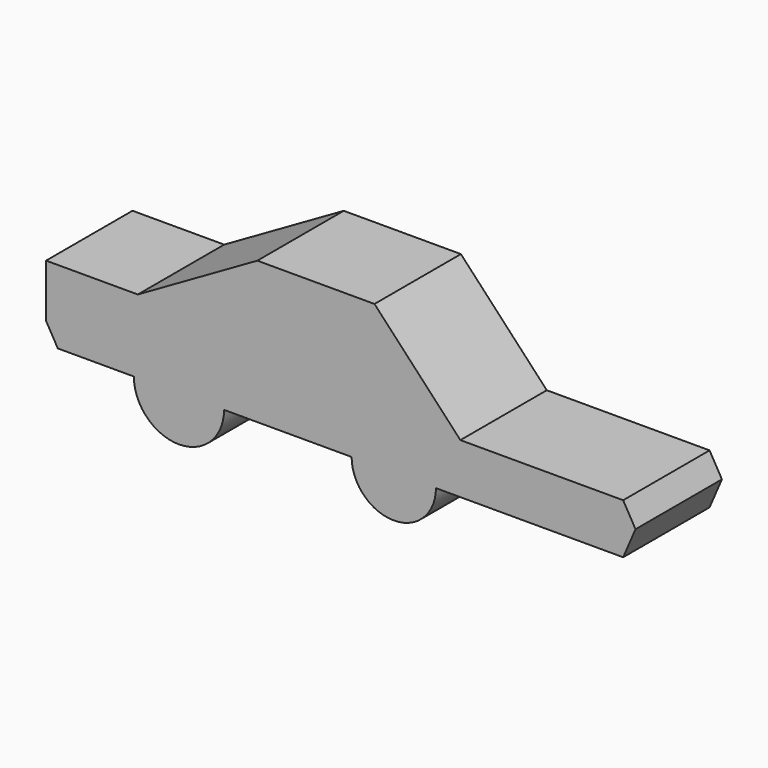
from build123d import *

# Parameters (mm, degrees)
F1_DEPTH = 25.4
F3_DEPTH = 24.638


with BuildPart() as f1:
    # F0 (on Front) → F1 (new body)
    with BuildSketch(Plane.XZ):
        Polygon((-55.65913, 0), (-77.227041, 0), (-77.227041, -12.480248), (-74.468359, -17.284485), (58.478687, -17.284485), (61.380661, -10.530814), (58.478687, -5.477033), (20.199362, -5.477033), (0, 16.141003), (-27.549616, 16.141003), align=None)
    extrude(amount=F1_DEPTH)

    # F2 (on face) → F3 (join)
    with BuildSketch(Plane.XZ.offset(25.4)):
        with BuildLine():
            ThreePointArc((-56.577916, -17.284485), (-45.976087, -27.886313), (-35.374259, -17.284485))
            Line((-35.374259, -17.284485), (-56.577916, -17.284485))
        make_face()
        with BuildLine():
            Line((-56.577916, -17.284485), (-35.374259, -17.284485))
            ThreePointArc((-35.374259, -17.284485), (-45.976087, -6.682656), (-56.577916, -17.284485))
        make_face()
        with BuildLine():
            Line((14.453539, -17.284485), (-5.380824, -17.284485))
            ThreePointArc((-5.380824, -17.284485), (4.536357, -27.201666), (14.453539, -17.284485))
        make_face()
        with BuildLine():
            ThreePointArc((14.453539, -17.284485), (4.536357, -7.367303), (-5.380824, -17.284485))
            Line((-5.380824, -17.284485), (14.453539, -17.284485))
        make_face()
    extrude(amount=-F3_DEPTH)


solid = f1.part
